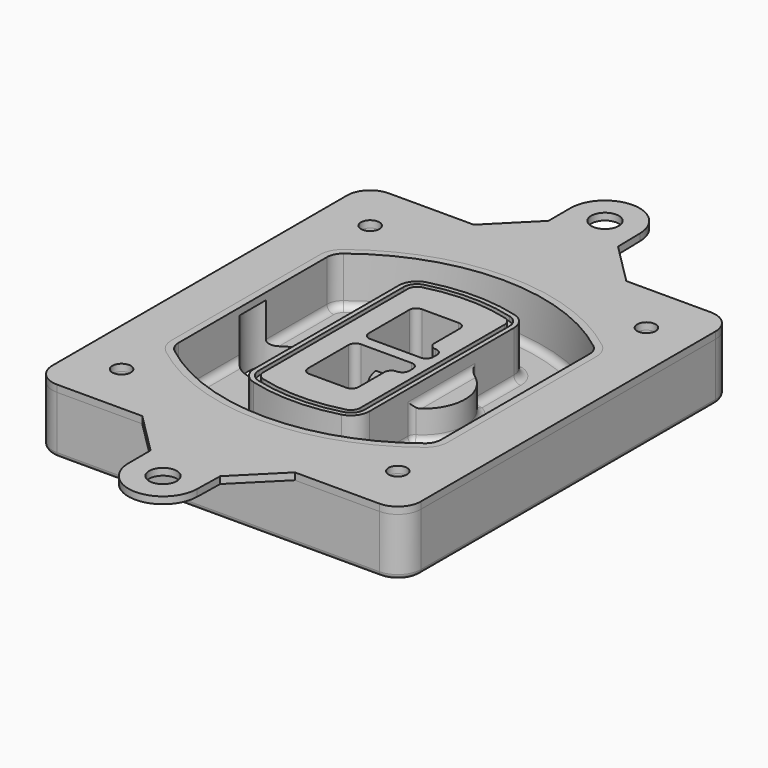
from build123d import *

# Parameters (mm, degrees)
F0_R      = 4
F1_DEPTH  = 25
F2_DEPTH  = 3
F3_DEPTH  = 18
F5_DEPTH  = 21
F6_DEPTH  = 2
F8_DEPTH  = 20
F9_DEPTH  = 16
F10_DEPTH = 25
F7_R      = 6
F7_R_2    = 4
F11_DEPTH = 6
F13_DEPTH = 9
F14_R     = 3
F15_R     = 2
F16_R     = 6
F16_R_2   = 4
F17_DEPTH = 3


with BuildPart() as f1:
    # F0 (on Top) → F1 (new body)
    with BuildSketch(Plane.XY):
        with BuildLine():
            ThreePointArc((-80, -80), (-77.0710678119, -87.0710678119), (-70, -90))
            Line((-70, -90), (70, -90))
            ThreePointArc((70, -90), (77.0710678119, -87.0710678119), (80, -80))
            Line((80, -80), (80, 80))
            ThreePointArc((80, 80), (77.0710678119, 87.0710678119), (70, 90))
            Line((70, 90), (-70, 90))
            ThreePointArc((-70, 90), (-77.0710678119, 87.0710678119), (-80, 80))
            Line((-80, 80), (-80, -80))
        make_face()
        with Locations((-60, -67.5)):
            Circle(F0_R, mode=Mode.SUBTRACT)
        with Locations((60, -67.5)):
            Circle(F0_R, mode=Mode.SUBTRACT)
        with Locations((-60, 67.5)):
            Circle(F0_R, mode=Mode.SUBTRACT)
        with BuildLine():
            ThreePointArc((-64, 40.2934422872), (-62.5820384798, 46.4328484224), (-58.6153846154, 51.3286200352))
            ThreePointArc((-58.6153846154, 51.3286200352), (0, 71.5), (58.6153846154, 51.3286200352))
            ThreePointArc((58.6153846154, 51.3286200352), (62.5820384798, 46.4328484224), (64, 40.2934422872))
            Line((64, 40.2934422872), (64, -40.2934422872))
            ThreePointArc((64, -40.2934422872), (62.5820384798, -46.4328484224), (58.6153846154, -51.3286200352))
            ThreePointArc((58.6153846154, -51.3286200352), (0, -71.5), (-58.6153846154, -51.3286200352))
            ThreePointArc((-58.6153846154, -51.3286200352), (-62.5820384798, -46.4328484224), (-64, -40.2934422872))
            Line((-64, -40.2934422872), (-64, 40.2934422872))
        make_face(mode=Mode.SUBTRACT)
        with Locations((60, 67.5)):
            Circle(F0_R, mode=Mode.SUBTRACT)
        with BuildLine():
            ThreePointArc((58.6153846154, 51.3286200352), (0, 71.5), (-58.6153846154, 51.3286200352))
            ThreePointArc((-58.6153846154, 51.3286200352), (-62.5820384798, 46.4328484224), (-64, 40.2934422872))
            Line((-64, 40.2934422872), (-64, -40.2934422872))
            ThreePointArc((-64, -40.2934422872), (-62.5820384798, -46.4328484224), (-58.6153846154, -51.3286200352))
            ThreePointArc((-58.6153846154, -51.3286200352), (0, -71.5), (58.6153846154, -51.3286200352))
            ThreePointArc((58.6153846154, -51.3286200352), (62.5820384798, -46.4328484224), (64, -40.2934422872))
            Line((64, -40.2934422872), (64, 40.2934422872))
            ThreePointArc((64, 40.2934422872), (62.5820384798, 46.4328484224), (58.6153846154, 51.3286200352))
        make_face()
        with BuildLine():
            Line((-60, -40.2934422872), (-60, 40.2934422872))
            ThreePointArc((-60, 40.2934422872), (-58.9871703427, 44.6787323838), (-56.1538461538, 48.1757121072))
            ThreePointArc((-56.1538461538, 48.1757121072), (0, 67.5), (56.1538461538, 48.1757121072))
            ThreePointArc((56.1538461538, 48.1757121072), (58.9871703427, 44.6787323838), (60, 40.2934422872))
            Line((60, 40.2934422872), (60, -40.2934422872))
            ThreePointArc((60, -40.2934422872), (58.9871703427, -44.6787323838), (56.1538461538, -48.1757121072))
            ThreePointArc((56.1538461538, -48.1757121072), (0, -67.5), (-56.1538461538, -48.1757121072))
            ThreePointArc((-56.1538461538, -48.1757121072), (-58.9871703427, -44.6787323838), (-60, -40.2934422872))
        make_face(mode=Mode.SUBTRACT)
        with BuildLine():
            ThreePointArc((-56.1538461538, 48.1757121072), (-58.9871703427, 44.6787323838), (-60, 40.2934422872))
            Line((-60, 40.2934422872), (-60, -40.2934422872))
            ThreePointArc((-60, -40.2934422872), (-58.9871703427, -44.6787323838), (-56.1538461538, -48.1757121072))
            ThreePointArc((-56.1538461538, -48.1757121072), (0, -67.5), (56.1538461538, -48.1757121072))
            ThreePointArc((56.1538461538, -48.1757121072), (58.9871703427, -44.6787323838), (60, -40.2934422872))
            Line((60, -40.2934422872), (60, 40.2934422872))
            ThreePointArc((60, 40.2934422872), (58.9871703427, 44.6787323838), (56.1538461538, 48.1757121072))
            ThreePointArc((56.1538461538, 48.1757121072), (0, 67.5), (-56.1538461538, 48.1757121072))
        make_face()
        with BuildLine():
            ThreePointArc((54.3076923077, 45.8110311612), (56.2910192399, 43.3631453548), (57, 40.2934422872))
            Line((57, 40.2934422872), (57, -40.2934422872))
            ThreePointArc((57, -40.2934422872), (56.2910192399, -43.3631453548), (54.3076923077, -45.8110311612))
            ThreePointArc((54.3076923077, -45.8110311612), (0, -64.5), (-54.3076923077, -45.8110311612))
            ThreePointArc((-54.3076923077, -45.8110311612), (-56.2910192399, -43.3631453548), (-57, -40.2934422872))
            Line((-57, -40.2934422872), (-57, 40.2934422872))
            ThreePointArc((-57, 40.2934422872), (-56.2910192399, 43.3631453548), (-54.3076923077, 45.8110311612))
            ThreePointArc((-54.3076923077, 45.8110311612), (0, 64.5), (54.3076923077, 45.8110311612))
        make_face(mode=Mode.SUBTRACT)
        with BuildLine():
            Line((57, -40.2934422872), (57, 40.2934422872))
            ThreePointArc((57, 40.2934422872), (56.2910192399, 43.3631453548), (54.3076923077, 45.8110311612))
            ThreePointArc((54.3076923077, 45.8110311612), (0, 64.5), (-54.3076923077, 45.8110311612))
            ThreePointArc((-54.3076923077, 45.8110311612), (-56.2910192399, 43.3631453548), (-57, 40.2934422872))
            Line((-57, 40.2934422872), (-57, -40.2934422872))
            ThreePointArc((-57, -40.2934422872), (-56.2910192399, -43.3631453548), (-54.3076923077, -45.8110311612))
            ThreePointArc((-54.3076923077, -45.8110311612), (0, -64.5), (54.3076923077, -45.8110311612))
            ThreePointArc((54.3076923077, -45.8110311612), (56.2910192399, -43.3631453548), (57, -40.2934422872))
        make_face()
    extrude(amount=-F1_DEPTH)

    # F0 (on Top) → F2 (join)
    with BuildSketch(Plane.XY):
        with BuildLine():
            ThreePointArc((-56.1538461538, 48.1757121072), (-58.9871703427, 44.6787323838), (-60, 40.2934422872))
            Line((-60, 40.2934422872), (-60, -40.2934422872))
            ThreePointArc((-60, -40.2934422872), (-58.9871703427, -44.6787323838), (-56.1538461538, -48.1757121072))
            ThreePointArc((-56.1538461538, -48.1757121072), (0, -67.5), (56.1538461538, -48.1757121072))
            ThreePointArc((56.1538461538, -48.1757121072), (58.9871703427, -44.6787323838), (60, -40.2934422872))
            Line((60, -40.2934422872), (60, 40.2934422872))
            ThreePointArc((60, 40.2934422872), (58.9871703427, 44.6787323838), (56.1538461538, 48.1757121072))
            ThreePointArc((56.1538461538, 48.1757121072), (0, 67.5), (-56.1538461538, 48.1757121072))
        make_face()
        with BuildLine():
            ThreePointArc((54.3076923077, 45.8110311612), (56.2910192399, 43.3631453548), (57, 40.2934422872))
            Line((57, 40.2934422872), (57, -40.2934422872))
            ThreePointArc((57, -40.2934422872), (56.2910192399, -43.3631453548), (54.3076923077, -45.8110311612))
            ThreePointArc((54.3076923077, -45.8110311612), (0, -64.5), (-54.3076923077, -45.8110311612))
            ThreePointArc((-54.3076923077, -45.8110311612), (-56.2910192399, -43.3631453548), (-57, -40.2934422872))
            Line((-57, -40.2934422872), (-57, 40.2934422872))
            ThreePointArc((-57, 40.2934422872), (-56.2910192399, 43.3631453548), (-54.3076923077, 45.8110311612))
            ThreePointArc((-54.3076923077, 45.8110311612), (0, 64.5), (54.3076923077, 45.8110311612))
        make_face(mode=Mode.SUBTRACT)
    extrude(amount=F2_DEPTH)

    # F0 (on Top) → F3 (cut)
    with BuildSketch(Plane.XY):
        with BuildLine():
            Line((57, -40.2934422872), (57, 40.2934422872))
            ThreePointArc((57, 40.2934422872), (56.2910192399, 43.3631453548), (54.3076923077, 45.8110311612))
            ThreePointArc((54.3076923077, 45.8110311612), (0, 64.5), (-54.3076923077, 45.8110311612))
            ThreePointArc((-54.3076923077, 45.8110311612), (-56.2910192399, 43.3631453548), (-57, 40.2934422872))
            Line((-57, 40.2934422872), (-57, -40.2934422872))
            ThreePointArc((-57, -40.2934422872), (-56.2910192399, -43.3631453548), (-54.3076923077, -45.8110311612))
            ThreePointArc((-54.3076923077, -45.8110311612), (0, -64.5), (54.3076923077, -45.8110311612))
            ThreePointArc((54.3076923077, -45.8110311612), (56.2910192399, -43.3631453548), (57, -40.2934422872))
        make_face()
    extrude(amount=-F3_DEPTH, mode=Mode.SUBTRACT)

    # F4 (on face) → F5 (join, through all)
    with BuildSketch(Plane.XY.offset(3)):
        with BuildLine():
            ThreePointArc((-25, -39.2465276821), (-23.3511545998, -44.1109737193), (-19.0842911877, -46.9702398883))
            ThreePointArc((-19.0842911877, -46.9702398883), (0, -49.5), (19.0842911877, -46.9702398883))
            ThreePointArc((19.0842911877, -46.9702398883), (23.3511545998, -44.1109737193), (25, -39.2465276821))
            Line((25, -39.2465276821), (25, 39.2465276821))
            ThreePointArc((25, 39.2465276821), (23.3511545998, 44.1109737193), (19.0842911877, 46.9702398883))
            ThreePointArc((19.0842911877, 46.9702398883), (0, 49.5), (-19.0842911877, 46.9702398883))
            ThreePointArc((-19.0842911877, 46.9702398883), (-23.3511545998, 44.1109737193), (-25, 39.2465276821))
            Line((-25, 39.2465276821), (-25, -39.2465276821))
        make_face()
        with BuildLine():
            ThreePointArc((18.5632183908, 45.0393118368), (21.7633659499, 42.89486221), (23, 39.2465276821))
            Line((23, 39.2465276821), (23, -39.2465276821))
            ThreePointArc((23, -39.2465276821), (21.7633659499, -42.89486221), (18.5632183908, -45.0393118368))
            ThreePointArc((18.5632183908, -45.0393118368), (0, -47.5), (-18.5632183908, -45.0393118368))
            ThreePointArc((-18.5632183908, -45.0393118368), (-21.7633659499, -42.89486221), (-23, -39.2465276821))
            Line((-23, -39.2465276821), (-23, 39.2465276821))
            ThreePointArc((-23, 39.2465276821), (-21.7633659499, 42.89486221), (-18.5632183908, 45.0393118368))
            ThreePointArc((-18.5632183908, 45.0393118368), (0, 47.5), (18.5632183908, 45.0393118368))
        make_face(mode=Mode.SUBTRACT)
        with BuildLine():
            Line((23, -39.2465276821), (23, 39.2465276821))
            ThreePointArc((23, 39.2465276821), (21.7633659499, 42.89486221), (18.5632183908, 45.0393118368))
            ThreePointArc((18.5632183908, 45.0393118368), (0, 47.5), (-18.5632183908, 45.0393118368))
            ThreePointArc((-18.5632183908, 45.0393118368), (-21.7633659499, 42.89486221), (-23, 39.2465276821))
            Line((-23, 39.2465276821), (-23, -39.2465276821))
            ThreePointArc((-23, -39.2465276821), (-21.7633659499, -42.89486221), (-18.5632183908, -45.0393118368))
            ThreePointArc((-18.5632183908, -45.0393118368), (0, -47.5), (18.5632183908, -45.0393118368))
            ThreePointArc((18.5632183908, -45.0393118368), (21.7633659499, -42.89486221), (23, -39.2465276821))
        make_face()
        with BuildLine():
            ThreePointArc((18.0421455939, 43.1083837852), (20.1755772999, 41.6787507007), (21, 39.2465276821))
            Line((21, 39.2465276821), (21, -39.2465276821))
            ThreePointArc((21, -39.2465276821), (20.1755772999, -41.6787507007), (18.0421455939, -43.1083837852))
            ThreePointArc((18.0421455939, -43.1083837852), (0, -45.5), (-18.0421455939, -43.1083837852))
            ThreePointArc((-18.0421455939, -43.1083837852), (-20.1755772999, -41.6787507007), (-21, -39.2465276821))
            Line((-21, -39.2465276821), (-21, 39.2465276821))
            ThreePointArc((-21, 39.2465276821), (-20.1755772999, 41.6787507007), (-18.0421455939, 43.1083837852))
            ThreePointArc((-18.0421455939, 43.1083837852), (0, 45.5), (18.0421455939, 43.1083837852))
        make_face(mode=Mode.SUBTRACT)
        with BuildLine():
            Line((21, -39.2465276821), (21, 39.2465276821))
            ThreePointArc((21, 39.2465276821), (20.1755772999, 41.6787507007), (18.0421455939, 43.1083837852))
            ThreePointArc((18.0421455939, 43.1083837852), (0, 45.5), (-18.0421455939, 43.1083837852))
            ThreePointArc((-18.0421455939, 43.1083837852), (-20.1755772999, 41.6787507007), (-21, 39.2465276821))
            Line((-21, 39.2465276821), (-21, -39.2465276821))
            ThreePointArc((-21, -39.2465276821), (-20.1755772999, -41.6787507007), (-18.0421455939, -43.1083837852))
            ThreePointArc((-18.0421455939, -43.1083837852), (0, -45.5), (18.0421455939, -43.1083837852))
            ThreePointArc((18.0421455939, -43.1083837852), (20.1755772999, -41.6787507007), (21, -39.2465276821))
        make_face()
        with BuildLine():
            Line((-8, -2.5), (14, -2.5))
            ThreePointArc((14, -2.5), (16.1213203436, -3.3786796564), (17, -5.5))
            Line((17, -5.5), (17, -7.5))
            ThreePointArc((17, -7.5), (16.1213203436, -9.6213203436), (14, -10.5))
            ThreePointArc((14, -10.5), (11.8786796564, -11.3786796564), (11, -13.5))
            Line((11, -13.5), (11, -27.5))
            ThreePointArc((11, -27.5), (10.1213203436, -29.6213203436), (8, -30.5))
            Line((8, -30.5), (-8, -30.5))
            ThreePointArc((-8, -30.5), (-10.1213203436, -29.6213203436), (-11, -27.5))
            Line((-11, -27.5), (-11, -5.5))
            ThreePointArc((-11, -5.5), (-10.1213203436, -3.3786796564), (-8, -2.5))
        make_face(mode=Mode.SUBTRACT)
        with BuildLine():
            ThreePointArc((-8, 2.5), (-10.1213203436, 3.3786796564), (-11, 5.5))
            Line((-11, 5.5), (-11, 27.5))
            ThreePointArc((-11, 27.5), (-10.1213203436, 29.6213203436), (-8, 30.5))
            Line((-8, 30.5), (8, 30.5))
            ThreePointArc((8, 30.5), (10.1213203436, 29.6213203436), (11, 27.5))
            Line((11, 27.5), (11, 13.5))
            ThreePointArc((11, 13.5), (11.8786796564, 11.3786796564), (14, 10.5))
            ThreePointArc((14, 10.5), (16.1213203436, 9.6213203436), (17, 7.5))
            Line((17, 7.5), (17, 5.5))
            ThreePointArc((17, 5.5), (16.1213203436, 3.3786796564), (14, 2.5))
            Line((14, 2.5), (-8, 2.5))
        make_face(mode=Mode.SUBTRACT)
    extrude(amount=-F5_DEPTH)

    # F4 (on face) → F6 (cut)
    with BuildSketch(Plane.XY.offset(3)):
        with BuildLine():
            Line((23, -39.2465276821), (23, 39.2465276821))
            ThreePointArc((23, 39.2465276821), (21.7633659499, 42.89486221), (18.5632183908, 45.0393118368))
            ThreePointArc((18.5632183908, 45.0393118368), (0, 47.5), (-18.5632183908, 45.0393118368))
            ThreePointArc((-18.5632183908, 45.0393118368), (-21.7633659499, 42.89486221), (-23, 39.2465276821))
            Line((-23, 39.2465276821), (-23, -39.2465276821))
            ThreePointArc((-23, -39.2465276821), (-21.7633659499, -42.89486221), (-18.5632183908, -45.0393118368))
            ThreePointArc((-18.5632183908, -45.0393118368), (0, -47.5), (18.5632183908, -45.0393118368))
            ThreePointArc((18.5632183908, -45.0393118368), (21.7633659499, -42.89486221), (23, -39.2465276821))
        make_face()
        with BuildLine():
            ThreePointArc((18.0421455939, 43.1083837852), (20.1755772999, 41.6787507007), (21, 39.2465276821))
            Line((21, 39.2465276821), (21, -39.2465276821))
            ThreePointArc((21, -39.2465276821), (20.1755772999, -41.6787507007), (18.0421455939, -43.1083837852))
            ThreePointArc((18.0421455939, -43.1083837852), (0, -45.5), (-18.0421455939, -43.1083837852))
            ThreePointArc((-18.0421455939, -43.1083837852), (-20.1755772999, -41.6787507007), (-21, -39.2465276821))
            Line((-21, -39.2465276821), (-21, 39.2465276821))
            ThreePointArc((-21, 39.2465276821), (-20.1755772999, 41.6787507007), (-18.0421455939, 43.1083837852))
            ThreePointArc((-18.0421455939, 43.1083837852), (0, 45.5), (18.0421455939, 43.1083837852))
        make_face(mode=Mode.SUBTRACT)
    extrude(amount=-F6_DEPTH, mode=Mode.SUBTRACT)

    # F7 (on face) → F8 (join)
    with BuildSketch(Plane(origin=(0, 0, -25), x_dir=(1, 0, 0), z_dir=(0, 0, -1))):
        with BuildLine():
            ThreePointArc((3.28842436, 0), (16.7567035675, 13.4682792075), (30.224982775, 0))
            Line((30.224982775, 0), (35.224982775, 0))
            ThreePointArc((35.224982775, 0), (16.7567035675, 18.4682792075), (-1.71157564, 0))
            Line((-1.71157564, 0), (3.28842436, 0))
        make_face()
        with BuildLine():
            Line((3.28842436, 0), (30.224982775, 0))
            ThreePointArc((30.224982775, 0), (16.7567035675, 13.4682792075), (3.28842436, 0))
        make_face()
        with BuildLine():
            ThreePointArc((3.28842436, 0), (16.7567035675, -13.4682792075), (30.224982775, 0))
            Line((30.224982775, 0), (3.28842436, 0))
        make_face()
        with BuildLine():
            Line((35.224982775, 0), (30.224982775, 0))
            ThreePointArc((30.224982775, 0), (16.7567035675, -13.4682792075), (3.28842436, 0))
            Line((3.28842436, 0), (-1.71157564, 0))
            ThreePointArc((-1.71157564, 0), (16.7567035675, -18.4682792075), (35.224982775, 0))
        make_face()
    extrude(amount=-F8_DEPTH)

    # F7 (on face) → F9 (cut)
    with BuildSketch(Plane(origin=(0, 0, -25), x_dir=(1, 0, 0), z_dir=(0, 0, -1))):
        with BuildLine():
            Line((3.28842436, 0), (30.224982775, 0))
            ThreePointArc((30.224982775, 0), (16.7567035675, 13.4682792075), (3.28842436, 0))
        make_face()
        with BuildLine():
            ThreePointArc((3.28842436, 0), (16.7567035675, -13.4682792075), (30.224982775, 0))
            Line((30.224982775, 0), (3.28842436, 0))
        make_face()
    extrude(amount=-F9_DEPTH, mode=Mode.SUBTRACT)

    # F7 (on face) → F10 (cut)
    with BuildSketch(Plane(origin=(0, 0, -25), x_dir=(1, 0, 0), z_dir=(0, 0, -1))):
        with BuildLine():
            Line((-59.0318229325, 0), (-32.0952645175, 0))
            ThreePointArc((-32.0952645175, 0), (-45.563543725, 13.4682792075), (-59.0318229325, 0))
        make_face()
        with BuildLine():
            ThreePointArc((-59.0318229325, 0), (-45.563543725, -13.4682792075), (-32.0952645175, 0))
            Line((-32.0952645175, 0), (-59.0318229325, 0))
        make_face()
    extrude(amount=-F10_DEPTH, mode=Mode.SUBTRACT)

    # F7 (on face) → F11 (cut)
    with BuildSketch(Plane(origin=(0, 0, -25), x_dir=(1, 0, 0), z_dir=(0, 0, -1))):
        with Locations((60, -67.5)):
            Circle(F7_R)
        with Locations((60, -67.5)):
            Circle(F7_R_2, mode=Mode.SUBTRACT)
        with Locations((60, -67.5)):
            Circle(F7_R)
        with Locations((60, -67.5)):
            Circle(F7_R_2, mode=Mode.SUBTRACT)
        with Locations((-60, -67.5)):
            Circle(F7_R)
        with Locations((-60, -67.5)):
            Circle(F7_R_2, mode=Mode.SUBTRACT)
        with Locations((-60, -67.5)):
            Circle(F7_R)
        with Locations((-60, -67.5)):
            Circle(F7_R_2, mode=Mode.SUBTRACT)
        with Locations((-60, 67.5)):
            Circle(F7_R)
        with Locations((-60, 67.5)):
            Circle(F7_R_2, mode=Mode.SUBTRACT)
        with Locations((-60, 67.5)):
            Circle(F7_R)
        with Locations((-60, 67.5)):
            Circle(F7_R_2, mode=Mode.SUBTRACT)
        with Locations((60, 67.5)):
            Circle(F7_R)
        with Locations((60, 67.5)):
            Circle(F7_R_2, mode=Mode.SUBTRACT)
        with Locations((60, 67.5)):
            Circle(F7_R)
        with Locations((60, 67.5)):
            Circle(F7_R_2, mode=Mode.SUBTRACT)
    extrude(amount=-F11_DEPTH, mode=Mode.SUBTRACT)

    # F12 (on face) → F13 (cut, through all)
    with BuildSketch(Plane(origin=(0, 0, -9), x_dir=(1, 0, 0), z_dir=(0, 0, -1))):
        with BuildLine():
            Line((11, 13.5), (11, 17.5481537753))
            ThreePointArc((11, 17.5481537753), (2.5696536419, 11.8239143813), (-1.5415842455, 2.5))
            Line((-1.5415842455, 2.5), (3.5224848595, 2.5))
            ThreePointArc((3.5224848595, 2.5), (6.1857188154, 8.3455872281), (11.2536447004, 12.2927168648))
            ThreePointArc((11.2536447004, 12.2927168648), (11.0640958889, 12.8831798879), (11, 13.5))
        make_face()
        with BuildLine():
            ThreePointArc((11.2536447004, -12.2927168648), (6.1857188154, -8.3455872281), (3.5224848595, -2.5))
            Line((3.5224848595, -2.5), (-1.5415842455, -2.5))
            ThreePointArc((-1.5415842455, -2.5), (2.5696536419, -11.8239143813), (11, -17.5481537753))
            Line((11, -17.5481537753), (11, -13.5))
            ThreePointArc((11, -13.5), (11.0640958889, -12.8831798879), (11.2536447004, -12.2927168648))
        make_face()
        with BuildLine():
            ThreePointArc((11.2536447004, 12.2927168648), (6.1857188154, 8.3455872281), (3.5224848595, 2.5))
            Line((3.5224848595, 2.5), (14, 2.5))
            ThreePointArc((14, 2.5), (16.1213203436, 3.3786796564), (17, 5.5))
            Line((17, 5.5), (17, 7.5))
            ThreePointArc((17, 7.5), (16.1213203436, 9.6213203436), (14, 10.5))
            ThreePointArc((14, 10.5), (12.3601599782, 10.9878446101), (11.2536447004, 12.2927168648))
        make_face()
        with BuildLine():
            Line((14, -2.5), (3.5224848595, -2.5))
            ThreePointArc((3.5224848595, -2.5), (6.1857188154, -8.3455872281), (11.2536447004, -12.2927168648))
            ThreePointArc((11.2536447004, -12.2927168648), (12.3601599782, -10.9878446101), (14, -10.5))
            ThreePointArc((14, -10.5), (16.1213203436, -9.6213203436), (17, -7.5))
            Line((17, -7.5), (17, -5.5))
            ThreePointArc((17, -5.5), (16.1213203436, -3.3786796564), (14, -2.5))
        make_face()
    extrude(amount=F13_DEPTH, mode=Mode.SUBTRACT)

    # F14
    f14_edges = [f1.edges().sort_by_distance(p)[0] for p in [
        (-57, -23.703476, -18),
        (-57, 23.703476, -18),
        (25, 0, -5),
        (25, 16.526506, -11.5),
        (25, -16.526506, -11.5),
        (25, -27.886517, -18),
        (35.224983, 0, -18),
    ]]
    fillet(f14_edges, radius=F14_R)

    # F15
    f15_edges = [f1.edges().sort_by_distance(p)[0] for p in [
        (0, -90, -25),
    ]]
    fillet(f15_edges, radius=F15_R)


with BuildPart() as f17:
    # F16 (on face) → F17 (new body, through all)
    with BuildSketch(Plane.XY):
        with BuildLine():
            Line((15.2561422762, 108), (14.9966722123, 120.3159470784))
            ThreePointArc((14.9966722123, 120.3159470784), (-0.1579823016, 134.99916803), (-15, 120))
            Line((-15, 120), (-15, 108))
            Line((-15, 108), (-33, 90))
            Line((-33, 90), (33.2561422762, 90))
            Line((33.2561422762, 90), (15.2561422762, 108))
        make_face()
        with Locations((0, 120)):
            Circle(F16_R, mode=Mode.SUBTRACT)
        with BuildLine():
            Line((70, 90), (33.2561422762, 90))
            Line((33.2561422762, 90), (-33, 90))
            Line((-33, 90), (-70, 90))
            ThreePointArc((-70, 90), (-77.0710678119, 87.0710678119), (-80, 80))
            Line((-80, 80), (-80, -80))
            ThreePointArc((-80, -80), (-77.0710678119, -87.0710678119), (-70, -90))
            Line((-70, -90), (-33, -90))
            Line((-33, -90), (33.2561422762, -90))
            Line((33.2561422762, -90), (70, -90))
            ThreePointArc((70, -90), (77.0710678119, -87.0710678119), (80, -80))
            Line((80, -80), (80, 80))
            ThreePointArc((80, 80), (77.0710678119, 87.0710678119), (70, 90))
        make_face()
        with Locations((-60, -67.5)):
            Circle(F16_R_2, mode=Mode.SUBTRACT)
        with Locations((60, -67.5)):
            Circle(F16_R_2, mode=Mode.SUBTRACT)
        with Locations((-60, 67.5)):
            Circle(F16_R_2, mode=Mode.SUBTRACT)
        with BuildLine():
            ThreePointArc((-60, 40.2934422872), (-58.9871703427, 44.6787323838), (-56.1538461538, 48.1757121072))
            ThreePointArc((-56.1538461538, 48.1757121072), (0, 67.5), (56.1538461538, 48.1757121072))
            ThreePointArc((56.1538461538, 48.1757121072), (58.9871703427, 44.6787323838), (60, 40.2934422872))
            Line((60, 40.2934422872), (60, -40.2934422872))
            ThreePointArc((60, -40.2934422872), (58.9871703427, -44.6787323838), (56.1538461538, -48.1757121072))
            ThreePointArc((56.1538461538, -48.1757121072), (0, -67.5), (-56.1538461538, -48.1757121072))
            ThreePointArc((-56.1538461538, -48.1757121072), (-58.9871703427, -44.6787323838), (-60, -40.2934422872))
            Line((-60, -40.2934422872), (-60, 40.2934422872))
        make_face(mode=Mode.SUBTRACT)
        with Locations((60, 67.5)):
            Circle(F16_R_2, mode=Mode.SUBTRACT)
        with BuildLine():
            Line((15.2561422762, -108), (33.2561422762, -90))
            Line((33.2561422762, -90), (-33, -90))
            Line((-33, -90), (-15, -108))
            Line((-15, -108), (-15, -120))
            ThreePointArc((-15, -120), (-0.1579823016, -134.99916803), (14.9966722123, -120.3159470784))
            Line((14.9966722123, -120.3159470784), (15.2561422762, -108))
        make_face()
        with Locations((0, -120)):
            Circle(F16_R, mode=Mode.SUBTRACT)
    extrude(amount=F17_DEPTH)


solid = Compound([f1.part, f17.part])
